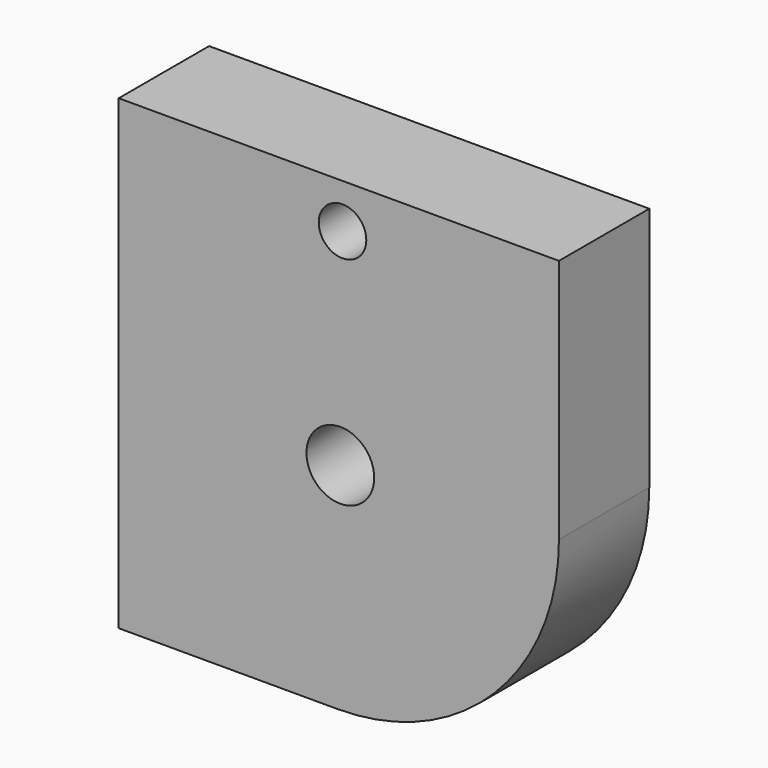
from build123d import *

# Parameters (mm, degrees)
PAD006_DEPTH    = 10
SKETCH008_R     = 2.106519
POCKET001_DEPTH = 10.001
SKETCH013_R     = 3
POCKET003_DEPTH = 10.001


with BuildPart() as part:
    # Sketch007 → Pad006 (new body)
    with BuildSketch(Plane.XZ.offset(67)):
        with BuildLine():
            Line((-44.627205, 4.223839), (-5.639042, 4.223839))
            Line((-5.639042, 4.223839), (-5.639042, -17.503959))
            ThreePointArc((-25.234732, -37.099649), (-11.378487, -31.360204), (-5.639042, -17.503959))
            Line((-25.234732, -37.099649), (-44.627205, -37.099649))
            Line((-44.627205, -37.099649), (-44.627205, 4.223839))
        make_face()
    extrude(amount=PAD006_DEPTH)

    # Sketch008 (on Face6 of Pad006) → Pocket001 (cut, through all)
    with BuildSketch(Plane(origin=(0, -67, 1), x_dir=(1, 0, 0), z_dir=(0, 1, 0))):
        with Locations((-24.808006, 0.705665)):
            Circle(SKETCH008_R)
    extrude(amount=-POCKET001_DEPTH, mode=Mode.SUBTRACT)

    # Sketch013 (on Face5 of Pocket001) → Pocket003 (cut, through all)
    with BuildSketch(Plane.XZ.offset(77)):
        with Locations((-25.001532, -18.014723)):
            Circle(SKETCH013_R)
    extrude(amount=-POCKET003_DEPTH, mode=Mode.SUBTRACT)


with BuildPart() as part_1:
    # Body004 placement: moved
    add(part.part.moved(Location((0, 0, 7))))


solid = part_1.part
